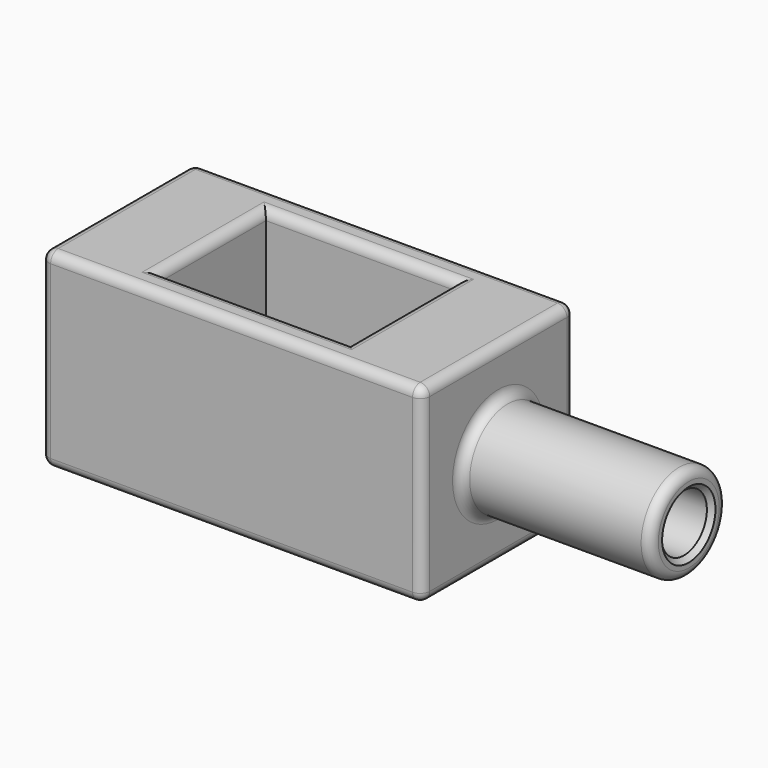
from build123d import *

# Parameters (mm, degrees)
F0_W     = 254
F0_H     = 127
F0_W_2   = 127
F0_H_2   = 88.9
F1_DEPTH = 127
F2_R     = 6.35
F3_R     = 31.75
F3_R_2   = 19.05
F4_DEPTH = 127
F5_R     = 6.35
F6_SIZE  = 3.175


with BuildPart() as f1:
    # F0 (on Top) → F1 (new body)
    with BuildSketch(Plane.XY):
        Rectangle(F0_W, F0_H)
        Rectangle(F0_W_2, F0_H_2, mode=Mode.SUBTRACT)
        Rectangle(F0_W, F0_H)
        Rectangle(F0_W_2, F0_H_2, mode=Mode.SUBTRACT)
    extrude(amount=F1_DEPTH)

    # F2
    f2_edges = [f1.edges().sort_by_distance(p)[0] for p in [
        (127, 0, 127),
        (0, 63.5, 127),
        (-127, 0, 127),
        (0, -63.5, 127),
        (0, -44.45, 127),
        (-63.5, 0, 127),
        (0, 44.45, 127),
        (63.5, 0, 127),
        (127, 0, 0),
        (0, 63.5, 0),
        (-127, 0, 0),
        (0, -63.5, 0),
        (0, -44.45, 0),
        (-63.5, 0, 0),
        (0, 44.45, 0),
        (63.5, 0, 0),
        (-127, -63.5, 63.5),
        (127, -63.5, 63.5),
        (127, 63.5, 63.5),
        (-127, 63.5, 63.5),
    ]]
    fillet(f2_edges, radius=F2_R)

    # F3 (on face) → F4 (join)
    with BuildSketch(Plane.YZ.offset(127)):
        with Locations((0, 63.5)):
            Circle(F3_R)
        with Locations((0, 63.5)):
            Circle(F3_R_2, mode=Mode.SUBTRACT)
    extrude(amount=F4_DEPTH)

    # F5
    f5_edges = [f1.edges().sort_by_distance(p)[0] for p in [
        (127, -31.75, 63.5),
        (254, -31.75, 63.5),
    ]]
    fillet(f5_edges, radius=F5_R)

    # F6
    f6_edges = [f1.edges().sort_by_distance(p)[0] for p in [
        (254, -19.05, 63.5),
    ]]
    chamfer(f6_edges, length=F6_SIZE)


solid = f1.part
